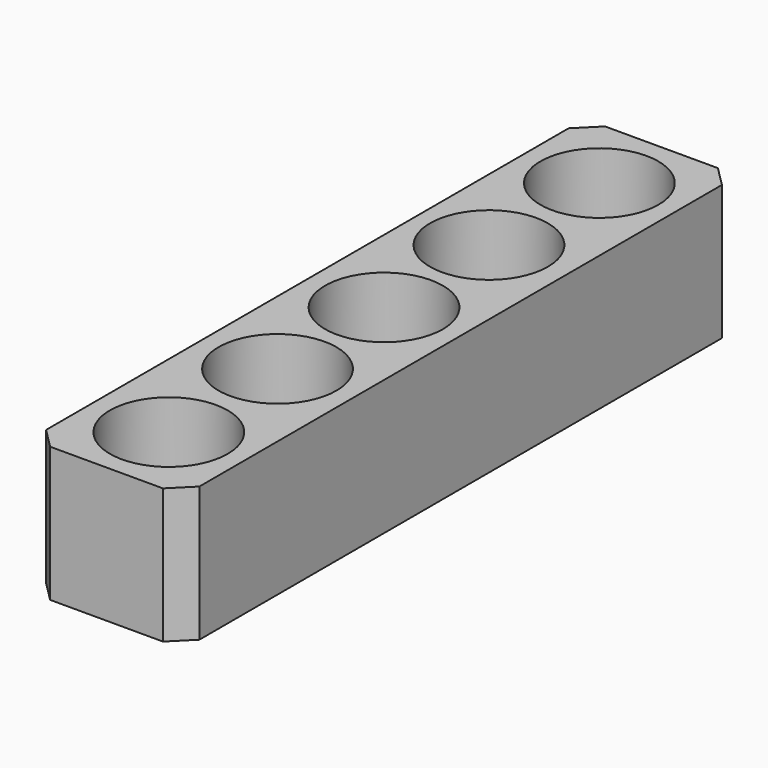
from build123d import *

# Parameters (mm, degrees)
F0_W     = 115.478478
F0_H     = 522.514462
F0_R     = 44.385544
F1_DEPTH = 101.6
F2_SIZE  = 15.24
F3_SIZE  = 15.24
F4_SIZE  = 15.24
F5_SIZE  = 15.24


with BuildPart() as f1:
    # F0 (on Top) → F1 (new body)
    with BuildSketch(Plane.XY):
        Rectangle(F0_W, F0_H)
        with Locations((0, -100.278944)):
            Circle(F0_R, mode=Mode.SUBTRACT)
        with Locations((0.409667, -203.118652)):
            Circle(F0_R, mode=Mode.SUBTRACT)
        Circle(F0_R, mode=Mode.SUBTRACT)
        with Locations((-1.443157, 100.623645)):
            Circle(F0_R, mode=Mode.SUBTRACT)
        with Locations((0, 202.821597)):
            Circle(F0_R, mode=Mode.SUBTRACT)
    extrude(amount=F1_DEPTH)

    # F2
    f2_edges = [f1.edges().sort_by_distance(p)[0] for p in [
        (57.739239, -261.257231, 50.8),
    ]]
    chamfer(f2_edges, length=F2_SIZE)

    # F3
    f3_edges = [f1.edges().sort_by_distance(p)[0] for p in [
        (-57.739239, -261.257231, 50.8),
    ]]
    chamfer(f3_edges, length=F3_SIZE)

    # F4
    f4_edges = [f1.edges().sort_by_distance(p)[0] for p in [
        (57.739239, 261.257231, 50.8),
    ]]
    chamfer(f4_edges, length=F4_SIZE)

    # F5
    f5_edges = [f1.edges().sort_by_distance(p)[0] for p in [
        (-57.739239, 261.257231, 50.8),
    ]]
    chamfer(f5_edges, length=F5_SIZE)


solid = f1.part
